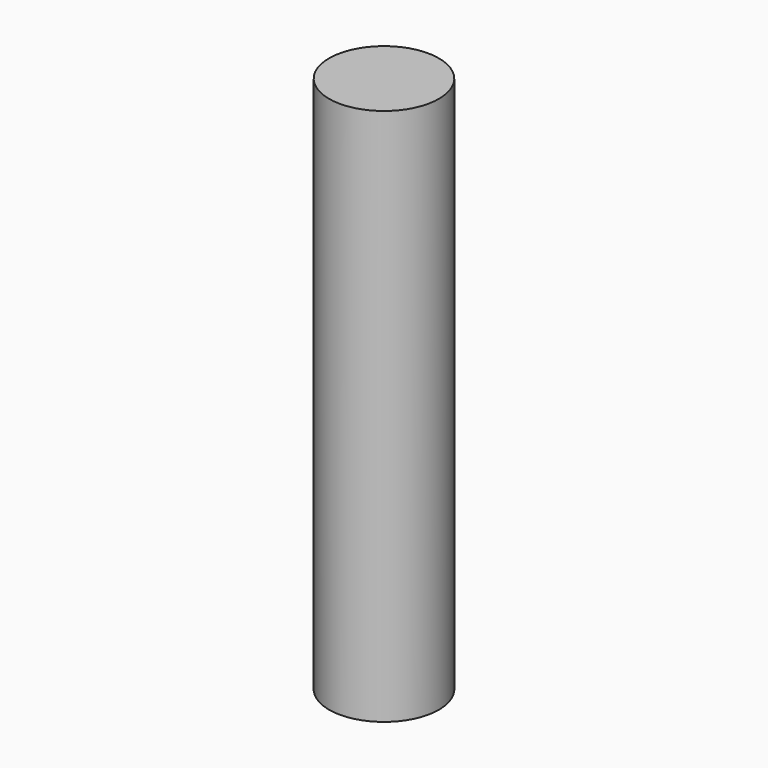
from build123d import *

# Parameters (mm, degrees)
PAD001_DEPTH            = 14.2
BODY001_PLACEMENT_ANGLE = 180


with BuildPart() as part:
    # Sketch001 → Pad001 (new body)
    with BuildSketch(Plane.XY):
        with BuildLine():
            ThreePointArc((0, 1.45), (-1.45, 0), (0, -1.45))
            Line((0, -1.45), (0, 1.45))
        make_face()
    pad001 = extrude(amount=PAD001_DEPTH)

    # Mirrored: Pad001 across Sketch001 V_Axis
    add(pad001.mirror(Plane(origin=(0, 0, 0), x_dir=(0, 0, 1), z_dir=(1, 0, 0))))


with BuildPart() as part_1:
    # Body001 placement: moved
    add(part.part.rotate(Axis((0, 0, 0), (0, 0, 1)), BODY001_PLACEMENT_ANGLE))


solid = part_1.part
